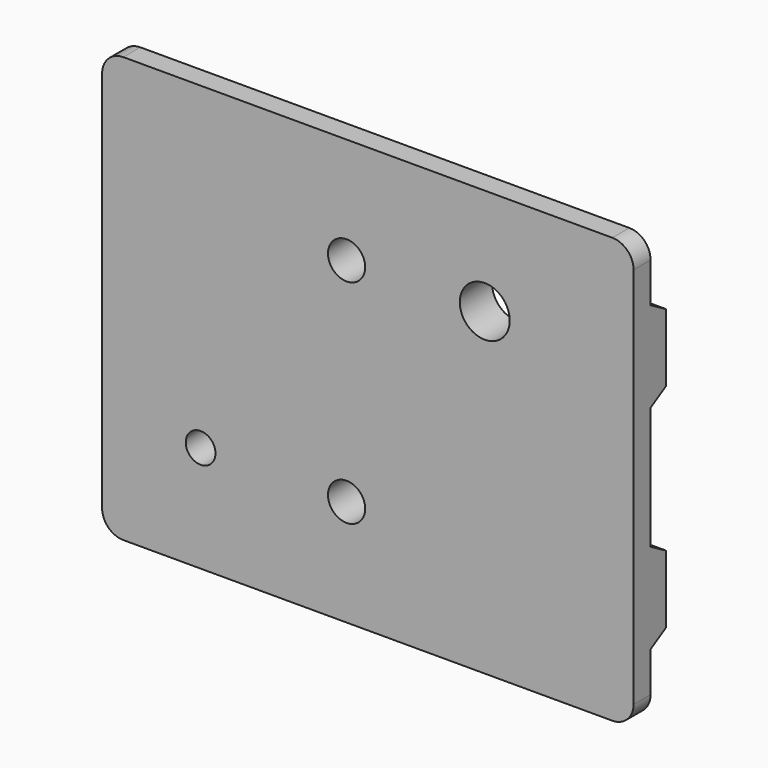
from build123d import *

# Parameters (mm, degrees)
SKETCH005_W       = 50
SKETCH005_H       = 40
PAD002_DEPTH      = 2
PAD003_DEPTH      = 50
SKETCH007_R       = 2.35
POCKET_DEPTH      = 15
POCKET_DEPTH_BACK = 100
SKETCH008_R       = 1.4
SKETCH008_R_2     = 1.75
POCKET001_DEPTH   = 5
FILLET004_R       = 2
FILLET005_R       = 2
FILLET006_R       = 2
FILLET007_R       = 2


with BuildPart() as part:
    # Sketch005 → Pad002 (new body)
    with BuildSketch(Plane.XZ):
        with Locations((74, -20)):
            Rectangle(SKETCH005_W, SKETCH005_H)
    extrude(amount=PAD002_DEPTH)

    # Sketch006 (on Face4 of Pad002) → Pad003 (join)
    with BuildSketch(Plane(origin=(99, 0, 0), x_dir=(0, 0, 1), z_dir=(1, 0, 0))):
        Polygon((-34.7, 0.798076), (-33.2, -1.8), (-26.8, -1.8), (-25.3, 0.798076), align=None)
        Polygon((-5.3, 0.798076), (-6.8, -1.8), (-13.2, -1.8), (-14.7, 0.798076), align=None)
    extrude(amount=-PAD003_DEPTH)

    # Sketch007 (on Face4 of Pad003) → Pocket (cut, two sides)
    with BuildSketch(Plane(origin=(0, 0, 0), x_dir=(1, 0, 0), z_dir=(0, 1, 0))) as pocket_sk:
        with Locations((85, 10)):
            Circle(SKETCH007_R)
    extrude(amount=-POCKET_DEPTH, mode=Mode.SUBTRACT)
    extrude(pocket_sk.sketch, amount=POCKET_DEPTH_BACK, mode=Mode.SUBTRACT)

    # Sketch008 (on Face5 of Pocket) → Pocket001 (cut)
    with BuildSketch(Plane.XZ.offset(2)):
        with Locations((58.268055, -30)):
            Circle(SKETCH008_R)
        with Locations((72, -30)):
            Circle(SKETCH008_R_2)
        with Locations((72, -10)):
            Circle(SKETCH008_R_2)
    extrude(amount=-POCKET001_DEPTH, mode=Mode.SUBTRACT)

    # Fillet004
    fillet004_edges = [part.edges().sort_by_distance(p)[0] for p in [
        (49, -1, -40),
    ]]
    fillet(fillet004_edges, radius=FILLET004_R)

    # Fillet005
    fillet005_edges = [part.edges().sort_by_distance(p)[0] for p in [
        (99, -1, -40),
    ]]
    fillet(fillet005_edges, radius=FILLET005_R)

    # Fillet006
    fillet006_edges = [part.edges().sort_by_distance(p)[0] for p in [
        (99, -1, 0),
    ]]
    fillet(fillet006_edges, radius=FILLET006_R)

    # Fillet007
    fillet007_edges = [part.edges().sort_by_distance(p)[0] for p in [
        (49, -1, 0),
    ]]
    fillet(fillet007_edges, radius=FILLET007_R)


solid = part.part
